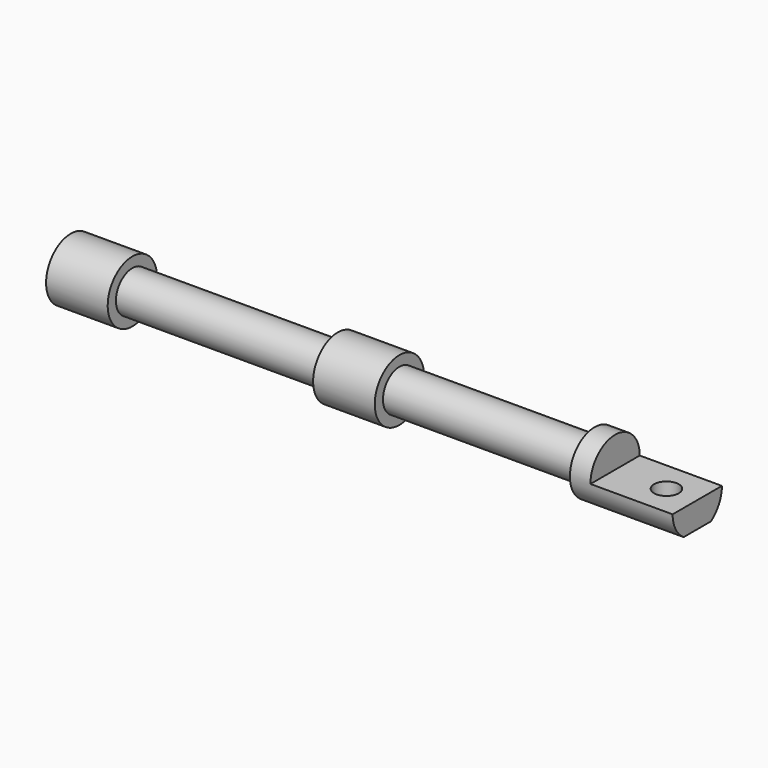
from build123d import *

# Parameters (mm, degrees)
F2_W          = 11.2872527242
F2_H          = 5.0563791087
F2_H_2        = 3.2026648214
F3_DEPTH      = 3.001
F3_DEPTH_BACK = 3.001
F4_R          = 1.2
F5_DEPTH      = 3.001


with BuildPart() as f1:
    # F0 (on Front) → F1 (revolve)
    with BuildSketch(Plane.XZ):
        Polygon((0, 3), (0, 0), (61, 0), (61, 3), (51, 3), (51, 2), (32, 2), (32, 3), (26, 3), (26, 2), (6, 2), (6, 3), align=None)
    revolve(axis=Axis((32.858710736, 0, 0), (1, 0, 0)))

    # F2 (on Front) → F3 (cut, two sides)
    with BuildSketch(Plane.XZ) as f3_sk:
        with Locations((58.6436263621, 2.5281895543)):
            Rectangle(F2_W, F2_H)
        with Locations((58.6436263621, -4.1013324107)):
            Rectangle(F2_W, F2_H_2)
    extrude(amount=-F3_DEPTH, mode=Mode.SUBTRACT)
    extrude(f3_sk.sketch, amount=F3_DEPTH_BACK, mode=Mode.SUBTRACT)

    # F4 (on face) → F5 (cut, through all)
    with BuildSketch(Plane.XY):
        with Locations((58, 0)):
            Circle(F4_R)
    extrude(amount=-F5_DEPTH, mode=Mode.SUBTRACT)


solid = f1.part
